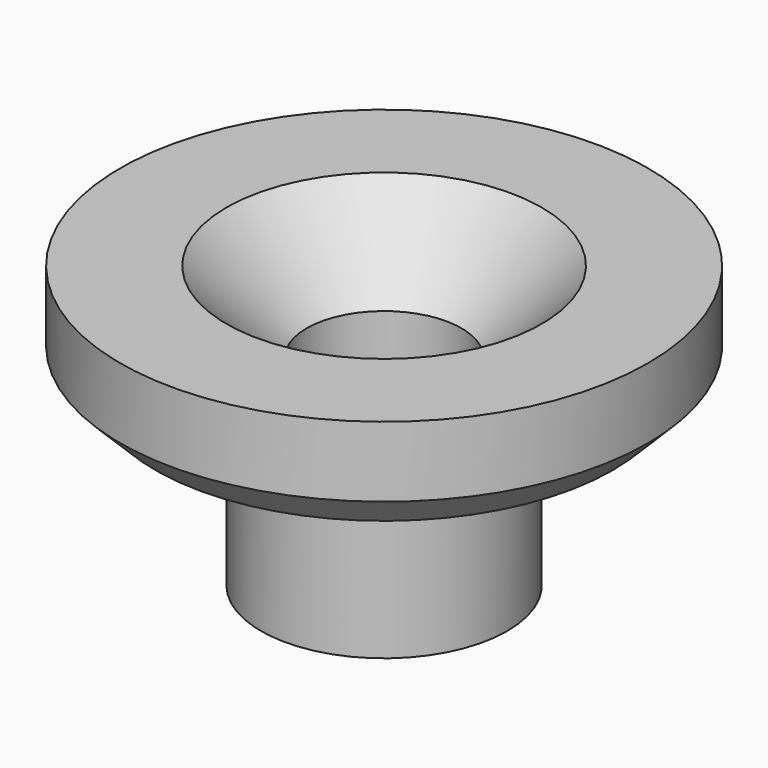
from build123d import *

# Parameters (mm, degrees)
F3_D           = 4.4
F3_CSINK_D     = 8.96
F3_CSINK_ANGLE = 90
F4_SIZE        = 1


with BuildPart() as f1:
    # F0 (on Front) → F1 (revolve)
    with BuildSketch(Plane.XZ):
        Polygon((0, 8), (0, 0), (3.5, 0), (3.5, 5), (7.5, 5), (7.5, 8), align=None)
    revolve(axis=Axis((0, 0, 4), (0, 0, 1)))

    # F3 (through all)
    with Locations(Plane.XY.offset(8)):
        with Locations((0, 0)):
            CounterSinkHole(F3_D / 2, F3_CSINK_D / 2, counter_sink_angle=F3_CSINK_ANGLE)

    # F4
    f4_edges = [f1.edges().sort_by_distance(p)[0] for p in [
        (-7.5, 0, 5),
    ]]
    chamfer(f4_edges, length=F4_SIZE)


solid = f1.part
